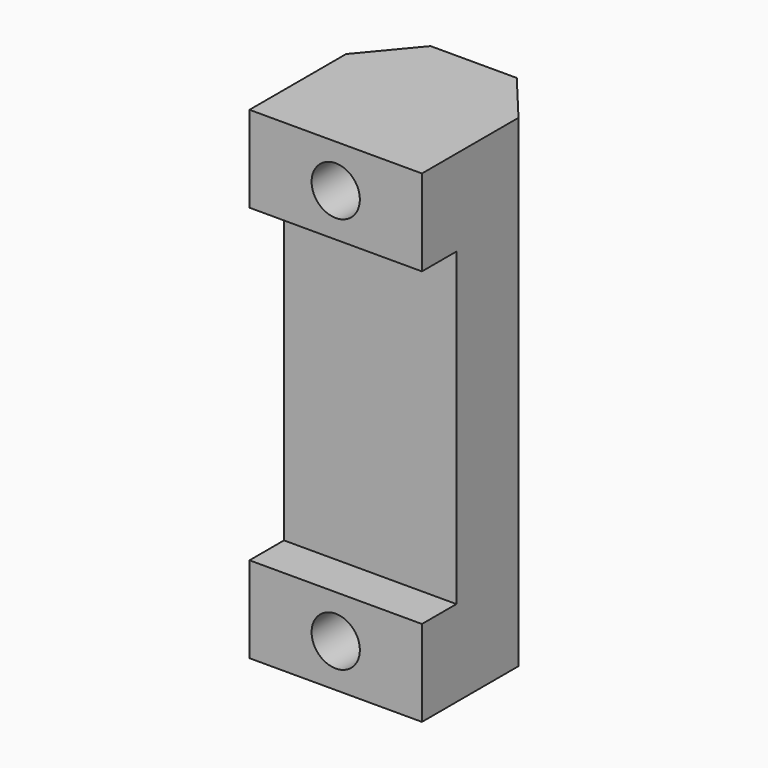
from build123d import *

# Parameters (mm, degrees)
F1_DEPTH = 28
F2_W     = 10
F2_H     = 18
F3_DEPTH = 2.5
F2_R     = 1.4
F4_DEPTH = 25


with BuildPart() as f1:
    # F0 (on Top) → F1 (new body)
    with BuildSketch(Plane.XY):
        Polygon((0, 7), (0, 0), (10, 0), (10, 7), (7.5, 10), (2.5, 10), align=None)
    extrude(amount=F1_DEPTH)

    # F2 (on face) → F3 (cut)
    with BuildSketch(Plane.XZ):
        with Locations((5, 14)):
            Rectangle(F2_W, F2_H)
    extrude(amount=-F3_DEPTH, mode=Mode.SUBTRACT)

    # F2 (on face) → F4 (cut)
    with BuildSketch(Plane.XZ):
        with Locations((5, 25.5)):
            Circle(F2_R)
        with Locations((5, 2.5)):
            Circle(F2_R)
    extrude(amount=-F4_DEPTH, mode=Mode.SUBTRACT)


solid = f1.part
